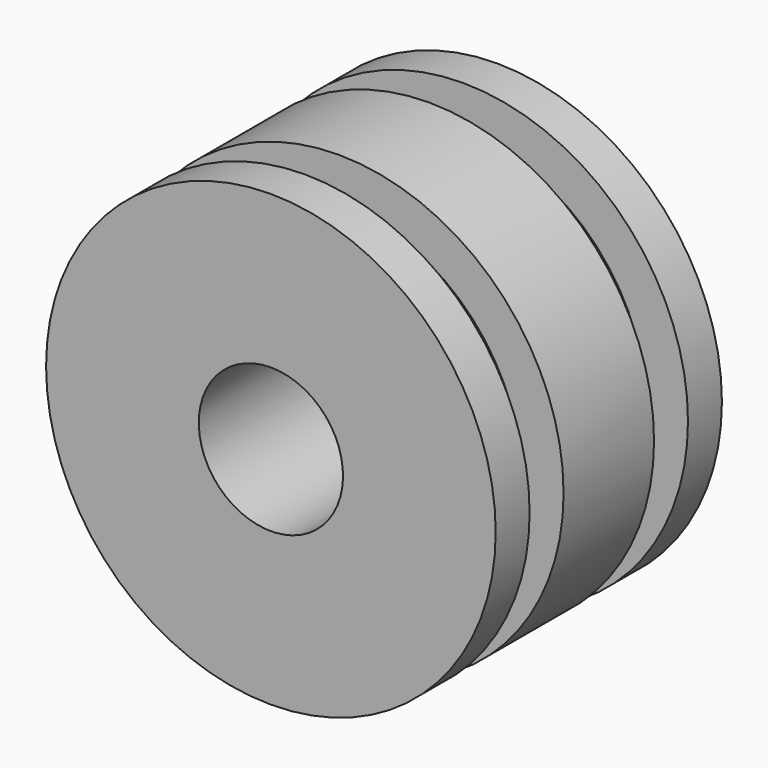
from build123d import *


with BuildPart() as f1:
    # F0 (on Right) → F1 (revolve)
    with BuildSketch(Plane.YZ):
        Polygon((0, 2.55), (10, 2.55), (10, 4.42), (10, 7.95), (8.5, 7.95), (8.5, 6.45), (7, 6.45), (7, 7.95), (3, 7.95), (3, 6.45), (1.5, 6.45), (1.5, 7.95), (0, 7.95), align=None)
    revolve(axis=Axis((0, 5.735075, 0), (0, -1, 0)))


solid = f1.part
